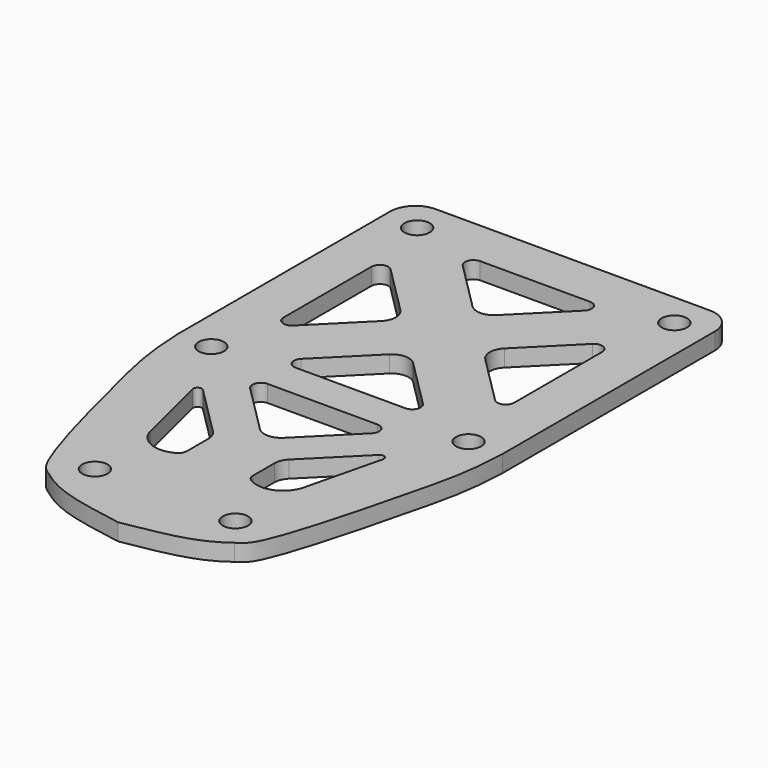
from build123d import *

# Parameters (mm, degrees)
F0_R     = 1.5
F1_DEPTH = 2


with BuildPart() as f1:
    # F0 (on Top) → F1 (new body)
    with BuildSketch(Plane.XY):
        with BuildLine():
            add(Edge.make_bspline(
                [(-19.2797562629, -9.905116457), (-19.0982468003, -14.4101153328), (-17.9920827376, -19.3739666304), (-13.308328145, -37.7679285444), (-11.6351514357, -38.8801394619), (-11.0301110372, -39.2582418919)],
                knots=[0, 0, 0, 0, 0.3683029461, 0.8298524693, 1, 1, 1, 1], degree=3))
            add(Edge.make_bspline(
                [(-11.0301110372, -39.2582418919), (-7.9284483046, -41.6670267819), (-4.0292758905, -42.0286703297), (-0.0297562629, -42.7926565894)],
                knots=[0, 0, 0, 0, 11.5542153526, 11.5542153526, 11.5542153526, 11.5542153526], degree=3))
            add(Edge.make_bspline(
                [(10.9705985114, -39.2582418919), (7.8689357787, -41.6670267819), (3.9697633646, -42.0286703297), (-0.0297562629, -42.7926565894)],
                knots=[0, 0, 0, 0, 11.5542153526, 11.5542153526, 11.5542153526, 11.5542153526], degree=3))
            add(Edge.make_bspline(
                [(19.2202437371, -9.905116457), (19.036977504, -14.4100339649), (17.9265362965, -19.3734899796), (13.2492727498, -37.7680162572), (11.5757589717, -38.88017148), (10.9705985114, -39.2582418919)],
                knots=[0, 0, 0, 0, 0.368314136, 0.829851714, 1, 1, 1, 1], degree=3))
            Line((19.2202437371, -9.905116457), (19.2202437371, 20.594883543))
            Line((19.2202437371, 20.594883543), (19.2202437371, 21.594883543))
            ThreePointArc((19.2202437371, 21.594883543), (18.3415640806, 23.7162038866), (16.2202437371, 24.594883543))
            Line((16.2202437371, 24.594883543), (0, 24.594883543))
            Line((0, 24.594883543), (-16.2797562629, 24.594883543))
            ThreePointArc((-16.2797562629, 24.594883543), (-18.4010766065, 23.7162038866), (-19.2797562629, 21.594883543))
            Line((-19.2797562629, 21.594883543), (-19.2797562629, 20.594883543))
            Line((-19.2797562629, 20.594883543), (-19.2797562629, -9.905116457))
        make_face()
        with Locations((-8.3591040188, -35.8089955406)):
            Circle(F0_R, mode=Mode.SUBTRACT)
        with Locations((-15.2797562629, -9.905116457)):
            Circle(F0_R, mode=Mode.SUBTRACT)
        with BuildLine():
            ThreePointArc((-11.3039357928, -17.6368901423), (-11.0636435897, -17.0822070704), (-10.4647527012, -17.1643250148))
            Line((-10.4647527012, -17.1643250148), (-4.5373681075, -23.0917096085))
            ThreePointArc((-4.5373681075, -23.0917096085), (-4.1038226049, -23.7405563062), (-3.9515816699, -24.5059231709))
            Line((-3.9515816699, -24.5059231709), (-3.9515816699, -27.680122055))
            ThreePointArc((-3.9515816699, -27.680122055), (-4.0562159615, -28.1254536709), (-4.3482221662, -28.4775913706))
            Line((-4.3482221662, -28.4775913706), (-4.4300632592, -28.5395117484))
            ThreePointArc((-4.4300632592, -28.5395117484), (-7.2536293499, -28.7688377699), (-9.1019734581, -26.6220401664))
            Line((-9.1019734581, -26.6220401664), (-11.3039357928, -17.6368901423))
        make_face(mode=Mode.SUBTRACT)
        with BuildLine():
            Line((-1.4439698253, -19.9923775593), (-7.2476494818, -14.1886979028))
            ThreePointArc((-7.2476494818, -14.1886979028), (-7.4644222331, -13.0989076893), (-6.5405427006, -12.4815911217))
            Line((-6.5405427006, -12.4815911217), (6.4810301747, -12.4815911217))
            ThreePointArc((6.4810301747, -12.4815911217), (7.4049097072, -13.0989076893), (7.1881369559, -14.1886979028))
            Line((7.1881369559, -14.1886979028), (1.3844572994, -19.9923775593))
            ThreePointArc((1.3844572994, -19.9923775593), (-0.0297562629, -20.5781639969), (-1.4439698253, -19.9923775593))
        make_face(mode=Mode.SUBTRACT)
        with Locations((8.2990484464, -35.8092267746)):
            Circle(F0_R, mode=Mode.SUBTRACT)
        with BuildLine():
            Line((4.4778555816, -23.0917096085), (10.405156074, -17.1644091162))
            ThreePointArc((10.405156074, -17.1644091162), (11.0040544707, -17.0822954), (11.2443350632, -17.6369909821))
            Line((11.2443350632, -17.6369909821), (9.042069144, -26.6220401664))
            ThreePointArc((9.042069144, -26.6220401664), (7.1939906468, -28.7689578546), (4.3705127945, -28.5395618872))
            Line((4.3705127945, -28.5395618872), (4.2886260755, -28.477593495))
            ThreePointArc((4.2886260755, -28.477593495), (3.9966801033, -28.1254721127), (3.892069144, -27.6801874108))
            Line((3.892069144, -27.6801874108), (3.892069144, -24.5059231709))
            ThreePointArc((3.892069144, -24.5059231709), (4.044310079, -23.7405563062), (4.4778555816, -23.0917096085))
        make_face(mode=Mode.SUBTRACT)
        with Locations((15.2202437371, -9.905116457)):
            Circle(F0_R, mode=Mode.SUBTRACT)
        with BuildLine():
            Line((-11.9976494818, 12.5627767618), (-6.1939698253, 6.7590971054))
            ThreePointArc((-6.1939698253, 6.7590971054), (-5.6081833877, 5.344883543), (-6.1939698253, 3.9306699806))
            Line((-6.1939698253, 3.9306699806), (-11.9976494818, -1.8730096758))
            ThreePointArc((-11.9976494818, -1.8730096758), (-13.0874396953, -2.0897824271), (-13.7047562629, -1.1659028946))
            Line((-13.7047562629, -1.1659028946), (-13.7047562629, 11.8556699806))
            ThreePointArc((-13.7047562629, 11.8556699806), (-13.0874396953, 12.7795495132), (-11.9976494818, 12.5627767618))
        make_face(mode=Mode.SUBTRACT)
        with BuildLine():
            ThreePointArc((-1.4439698253, -0.8193300194), (-0.0297562629, -0.2335435817), (1.3844572994, -0.8193300194))
            Line((1.3844572994, -0.8193300194), (7.1881369559, -6.6230096758))
            ThreePointArc((7.1881369559, -6.6230096758), (7.4049097072, -7.7127998894), (6.4810301747, -8.330116457))
            Line((6.4810301747, -8.330116457), (-6.5405427006, -8.330116457))
            ThreePointArc((-6.5405427006, -8.330116457), (-7.4644222331, -7.7127998894), (-7.2476494818, -6.6230096758))
            Line((-7.2476494818, -6.6230096758), (-1.4439698253, -0.8193300194))
        make_face(mode=Mode.SUBTRACT)
        with Locations((-15.2797562629, 20.594883543)):
            Circle(F0_R, mode=Mode.SUBTRACT)
        with BuildLine():
            ThreePointArc((1.3844572994, 11.5090971054), (-0.0297562629, 10.9233106678), (-1.4439698253, 11.5090971054))
            Line((-1.4439698253, 11.5090971054), (-7.2476494818, 17.3127767618))
            ThreePointArc((-7.2476494818, 17.3127767618), (-7.4644222331, 18.4025669754), (-6.5405427006, 19.019883543))
            Line((-6.5405427006, 19.019883543), (6.4810301747, 19.019883543))
            ThreePointArc((6.4810301747, 19.019883543), (7.4049097072, 18.4025669754), (7.1881369559, 17.3127767618))
            Line((7.1881369559, 17.3127767618), (1.3844572994, 11.5090971054))
        make_face(mode=Mode.SUBTRACT)
        with BuildLine():
            Line((11.9381369559, -1.8730096758), (6.1344572994, 3.9306699806))
            ThreePointArc((6.1344572994, 3.9306699806), (5.5486708618, 5.344883543), (6.1344572994, 6.7590971054))
            Line((6.1344572994, 6.7590971054), (11.9381369559, 12.5627767618))
            ThreePointArc((11.9381369559, 12.5627767618), (13.0279271694, 12.7795495132), (13.6452437371, 11.8556699806))
            Line((13.6452437371, 11.8556699806), (13.6452437371, -1.1659028946))
            ThreePointArc((13.6452437371, -1.1659028946), (13.0279271694, -2.0897824271), (11.9381369559, -1.8730096758))
        make_face(mode=Mode.SUBTRACT)
        with Locations((15.2202437371, 20.594883543)):
            Circle(F0_R, mode=Mode.SUBTRACT)
    extrude(amount=F1_DEPTH)


solid = f1.part
